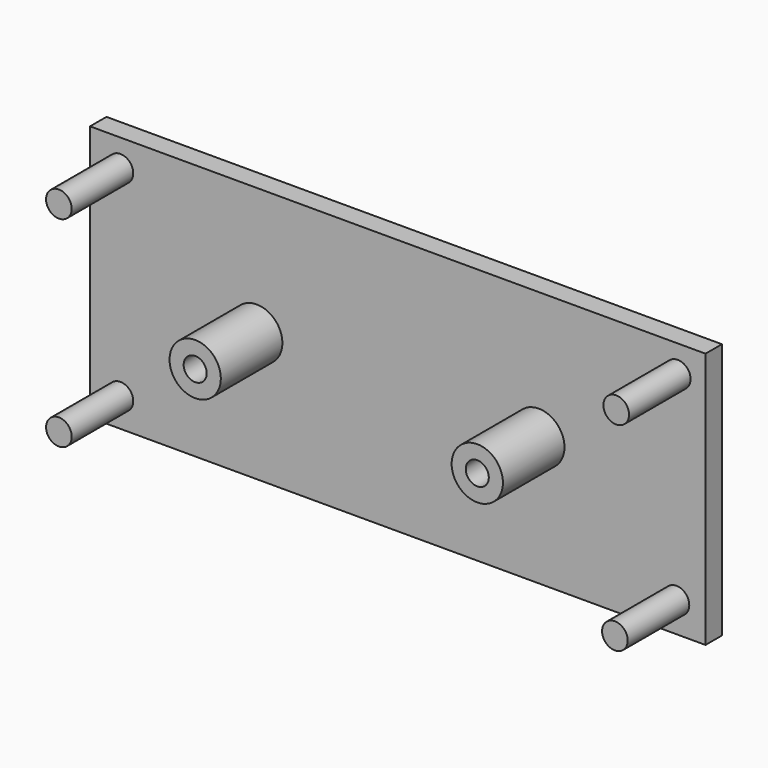
from build123d import *

# Parameters (mm, degrees)
F0_R     = 2.25
F1_DEPTH = 4
F2_R     = 5
F2_R_2   = 2.25
F3_DEPTH = 15
F4_R     = 2.5
F5_DEPTH = 15


with BuildPart() as f1:
    # F0 (on Front) → F1 (new body)
    with BuildSketch(Plane.XZ):
        Polygon((-60, -25), (0, -25), (60, -25), (60, 25), (-60, 25), align=None)
        with Locations((-27.5, 0)):
            Circle(F0_R, mode=Mode.SUBTRACT)
        with Locations((27.5, 0)):
            Circle(F0_R, mode=Mode.SUBTRACT)
    extrude(amount=F1_DEPTH)

    # F2 (on face) → F3 (join)
    with BuildSketch(Plane.XZ.offset(4)):
        with Locations((-27.5, 0)):
            Circle(F2_R)
        with Locations((-27.5, 0)):
            Circle(F2_R_2, mode=Mode.SUBTRACT)
        with Locations((27.5, 0)):
            Circle(F2_R)
        with Locations((27.5, 0)):
            Circle(F2_R_2, mode=Mode.SUBTRACT)
    extrude(amount=F3_DEPTH)

    # F4 (on face) → F5 (join)
    with BuildSketch(Plane.XZ.offset(4)):
        with Locations((-54.076705, 19.686049)):
            Circle(F4_R)
        with Locations((-54.076705, -19.433273)):
            Circle(F4_R)
        with Locations((54.332387, -19.177591)):
            Circle(F4_R)
        with Locations((54.588076, 19.686049)):
            Circle(F4_R)
    extrude(amount=F5_DEPTH)


solid = f1.part
